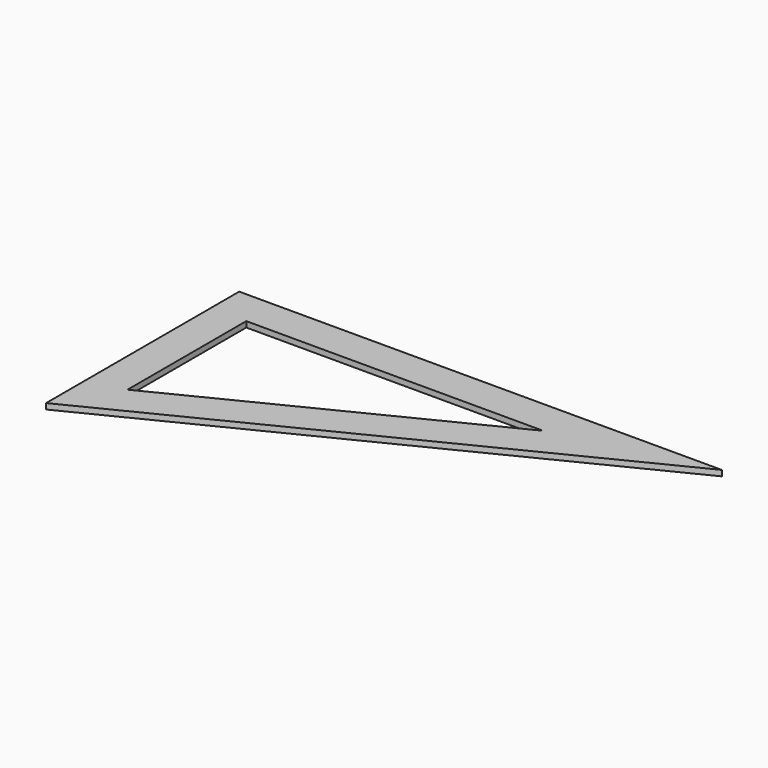
from build123d import *

# Parameters (mm, degrees)
F1_DEPTH = 2


with BuildPart() as f1:
    # F0 (on Top) → F1 (new body, symmetric)
    with BuildSketch(Plane.XY):
        Polygon((170, 85), (-170, 85), (-170, -85), align=None)
        Polygon((-145, -44.5491502813), (-145, 60), (64.0983005625, 60), align=None, mode=Mode.SUBTRACT)
    extrude(amount=F1_DEPTH, both=True)


solid = f1.part
